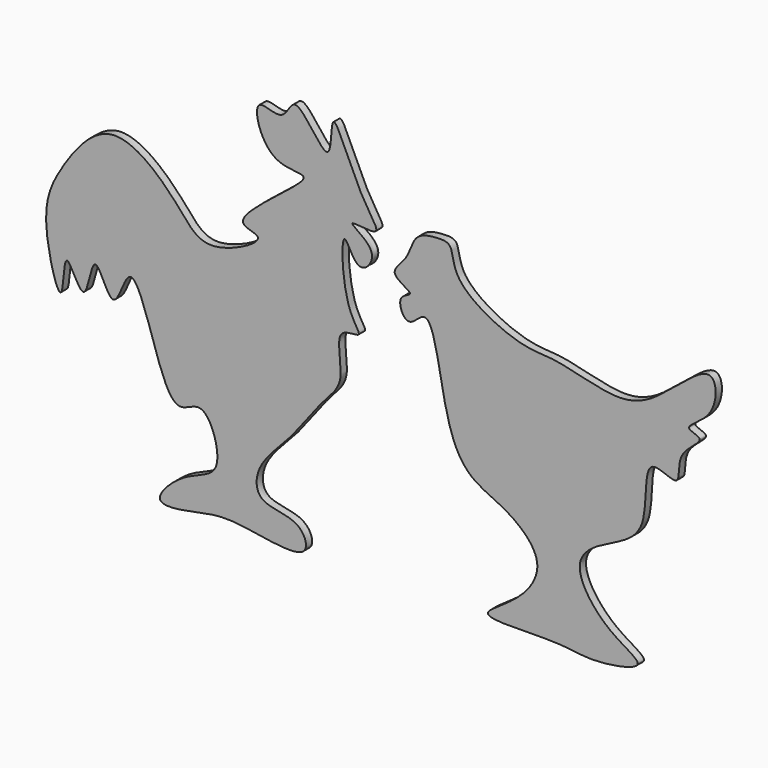
from build123d import *

# Parameters (mm, degrees)
F1_DEPTH = 1
F3_DEPTH = 1


with BuildPart() as f1:
    # F0 (on Front) → F1 (new body)
    with BuildSketch(Plane.XZ):
        with BuildLine():
            add(Edge.make_bspline(
                [(-53.5688661039, 11.411678046), (-53.9173757584, 12.1271058743), (-50.355035261, 15.8550484856), (-44.9046866023, 16.2751859906), (-47.7368685435, 25.0450511283), (-51.4899578476, 21.3981911795), (-54.0664042963, 26.9694486474), (-57.3426756988, 39.0798283001), (-59.466700068, 28.9243258917), (-62.188341832, 38.4791760827), (-62.969493971, 28.444965765), (-66.0130925584, 37.5040296801), (-65.7655106431, 26.8159007226), (-69.1365683387, 38.7142370477), (-66.6095420023, 44.4259089481), (-59.8766033343, 53.4219979764), (-51.0790337247, 45.4822604205), (-47.9957212779, 40.4423032276), (-38.5798059984, 45.394398945), (-46.5182271474, 45.4803417488), (-31.2487414773, 55.0785482924), (-40.0400689365, 52.9765419108), (-42.372203224, 61.7156264997), (-37.6269895523, 58.4191959791), (-36.488611768, 63.8247904483), (-31.3708669835, 53.9894884543), (-32.1230936411, 64.9541141995), (-28.2688761316, 53.5128760444), (-24.5026374304, 49.7359748713), (-31.1934833299, 51.1289086218), (-25.0748106618, 48.4005459825), (-28.4155727939, 44.2856949492), (-30.641437659, 51.6398195829), (-30.285793398, 40.4335272726), (-27.1673848002, 37.7797640836), (-31.7068598834, 38.4365328322), (-29.6113440556, 32.1124739534), (-33.1005688445, 29.2488329027), (-36.6658871033, 23.6782463148), (-41.4840076702, 19.5978030423), (-41.353422592, 14.7867795685), (-35.6267829872, 15.3083896968), (-33.8456070252, 9.836229449), (-44.7029152612, 12.6741964414), (-48.5870735308, 11.4582119108), (-53.2451250063, 10.7470956236), (-53.5688661039, 11.411678046)],
                knots=[0, 0, 0, 0, 0.0227502896, 0.0453859652, 0.0707231633, 0.0877720836, 0.1123193192, 0.1426074535, 0.1628821645, 0.1834354226, 0.2038930809, 0.2233255195, 0.2436739937, 0.2708579432, 0.2998783676, 0.3302182797, 0.3623237752, 0.3870977151, 0.4131920758, 0.4285787106, 0.4624720148, 0.4825840635, 0.5072967841, 0.5247664872, 0.5412928967, 0.5658470954, 0.5857009103, 0.615226518, 0.6352235891, 0.6526739466, 0.6719930961, 0.6886100376, 0.7068572516, 0.7353935501, 0.7529780681, 0.7681921039, 0.7911750526, 0.8125340824, 0.8394208333, 0.8654686837, 0.8841099514, 0.9067722305, 0.9239648686, 0.9545381862, 0.9788665719, 1, 1, 1, 1], degree=3))
        make_face()
    extrude(amount=F1_DEPTH)


with BuildPart() as f3:
    # F2 (on Front) → F3 (new body)
    with BuildSketch(Plane.XZ):
        with BuildLine():
            add(Edge.make_bspline(
                [(-11.6946110502, 12.1661685407), (-12.0167142603, 12.6501847665), (-7.5139044866, 14.8755568388), (-3.9758549684, 20.2140395886), (-9.1782399751, 24.9107482878), (-14.6867577188, 26.5604663388), (-17.474907336, 32.9245965021), (-18.8733548711, 45.4507527301), (-21.9797073257, 40.4278630995), (-23.6693106636, 44.4482394479), (-20.532330169, 44.8842303454), (-24.8810107701, 46.4509808351), (-21.722212337, 48.6645028347), (-21.3053075315, 52.0522265397), (-18.1634311284, 52.3989598764), (-16.084377192, 52.3156378501), (-16.4818567525, 47.8371607978), (-7.570684321, 43.3665851748), (-3.3560668616, 43.8446080725), (3.2382168855, 41.779619966), (9.1631740965, 41.8815524382), (17.459367052, 51.2041300994), (17.6656447921, 43.3933562101), (12.4951718609, 41.3611804509), (16.6977219283, 40.7380731953), (11.9290221025, 38.4706147787), (13.3049894708, 33.6259302529), (7.6002779051, 37.6365643143), (9.321941032, 27.4199884641), (3.4644381456, 25.2842157822), (-1.763084419, 21.8462269451), (3.17199281, 15.0419042875), (9.757019853, 12.52457578), (1.1044331944, 10.9501360868), (-2.1298756658, 12.1928945915), (-11.2480071862, 11.4950683781), (-11.6946110502, 12.1661685407)],
                knots=[0, 0, 0, 0, 0.0290339028, 0.0623688229, 0.0954831758, 0.1275900546, 0.1654360268, 0.2078488661, 0.2290806865, 0.2507070673, 0.2674697926, 0.2889344193, 0.3112908, 0.3360215159, 0.3589089104, 0.3761331288, 0.4016004373, 0.443165378, 0.4726639679, 0.5075015447, 0.5422391927, 0.5833040073, 0.6114375034, 0.6381266049, 0.655157619, 0.68091383, 0.7052725603, 0.7294730311, 0.7657969727, 0.7993224367, 0.8295850265, 0.8670983173, 0.8957409646, 0.9279645279, 0.959743794, 1, 1, 1, 1], degree=3))
        make_face()
    extrude(amount=F3_DEPTH)


solid = Compound([f1.part, f3.part])
